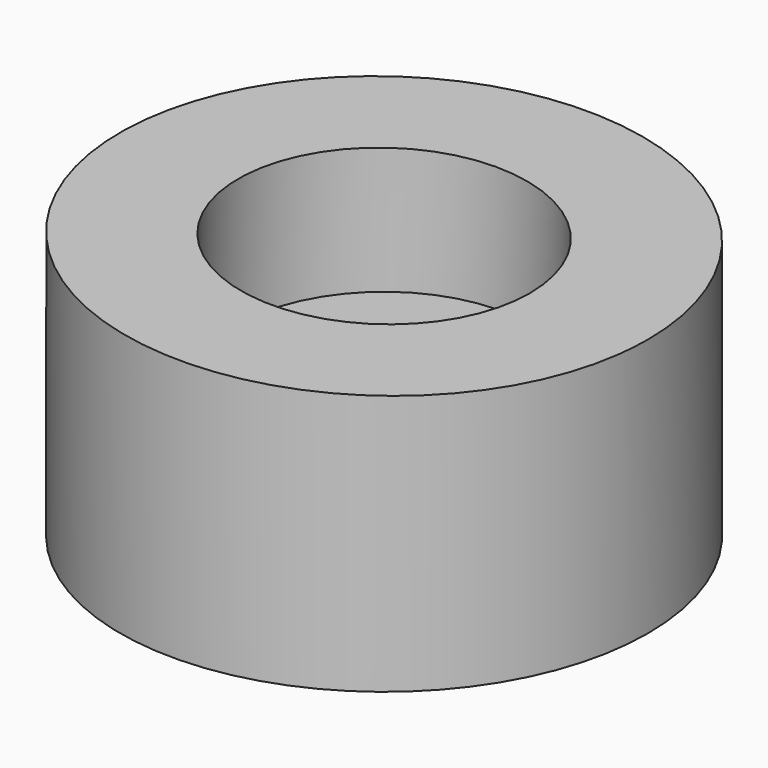
from build123d import *

# Parameters (mm, degrees)
F0_R     = 9.5
F0_R_2   = 5.25
F1_DEPTH = 10
F2_R     = 5.25
F2_R_2   = 3
F3_DEPTH = 5
F5_DEPTH = 12.5


with BuildPart() as f1:
    # F0 (on Top) → F1 (new body)
    with BuildSketch(Plane.XY):
        Circle(F0_R)
        Circle(F0_R_2, mode=Mode.SUBTRACT)
    extrude(amount=F1_DEPTH)

    # F2 (on Top) → F3 (join)
    with BuildSketch(Plane.XY):
        Circle(F2_R)
        Circle(F2_R_2, mode=Mode.SUBTRACT)
    extrude(amount=F3_DEPTH)

    # F4 (on Front) → F5 (intersect, symmetric)
    with BuildSketch(Plane.XZ):
        Polygon((25, 9), (-25, 10), (-25, 0), (25, 0), align=None)
    extrude(amount=F5_DEPTH, both=True, mode=Mode.INTERSECT)


solid = f1.part
